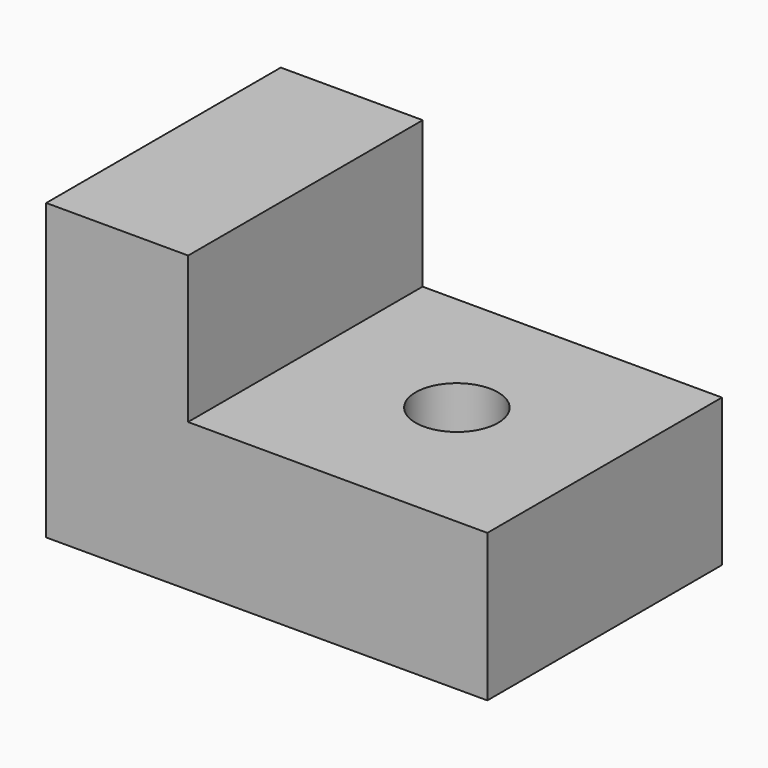
from build123d import *

# Parameters (mm, degrees)
F1_DEPTH = 60
F2_W     = 29.0517922733
F2_H     = 60
F3_DEPTH = 30
F4_R     = 8.4402265008
F5_DEPTH = 49


with BuildPart() as f1:
    # F0 (on Front) → F1 (new body)
    with BuildSketch(Plane.XZ):
        Polygon((51.5215955675, 16.4024308324), (-38.782004267, 16.4853166789), (-38.782004267, -13.7799708173), (51.5215955675, -13.7799708173), align=None)
    extrude(amount=-F1_DEPTH)

    # F2 (on face) → F3 (join)
    with BuildSketch(Plane(origin=(0.0150984883, 0, 16.4497064628), x_dir=(0.9999995788, 0, -0.0009178572), z_dir=(0.0009178572, 0, 0.9999995788))):
        with Locations((-24.2712229612, 30)):
            Rectangle(F2_W, F2_H)
    extrude(amount=F3_DEPTH)

    # F4 (on face) → F5 (cut)
    with BuildSketch(Plane(origin=(0.0150984883, 0, 16.4497064628), x_dir=(0.9999995788, 0, -0.0009178572), z_dir=(0.0009178572, 0, 0.9999995788))):
        with Locations((20.6399001181, 30.7776089758)):
            Circle(F4_R)
    extrude(amount=-F5_DEPTH, mode=Mode.SUBTRACT)


solid = f1.part
